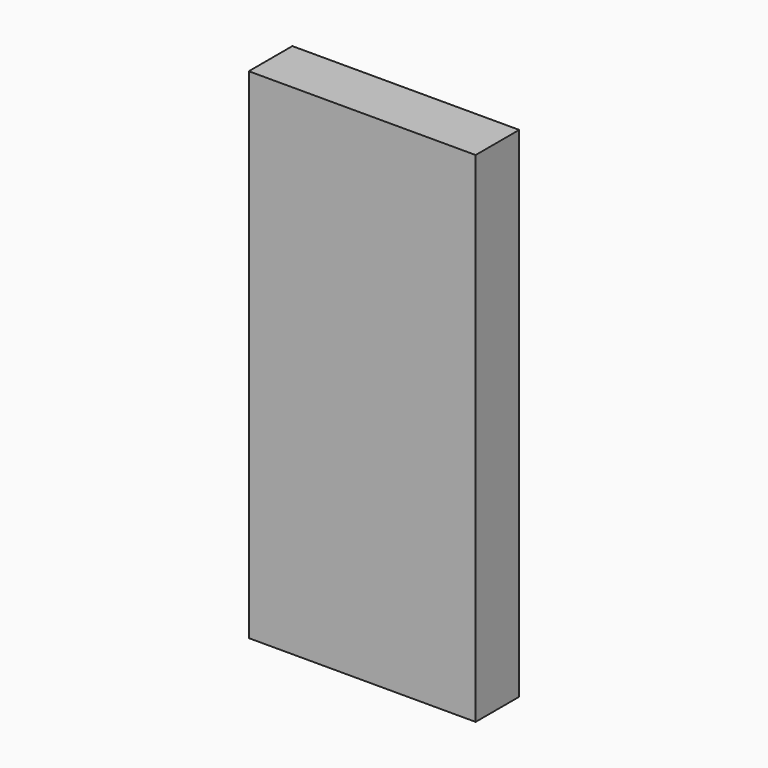
from build123d import *

# Parameters (mm, degrees)
F0_W     = 50
F0_H     = 110
F1_DEPTH = 20
F2_W     = 50
F2_H     = 110
F2_R     = 3
F3_DEPTH = 8


with BuildPart() as f1:
    # F0 (on Front) → F1 (new body)
    with BuildSketch(Plane.XZ):
        with Locations((0, 35)):
            Rectangle(F0_W, F0_H)
    extrude(amount=F1_DEPTH)

    # F2 (on face) → F3 (cut)
    with BuildSketch(Plane(origin=(0, 0, 0), x_dir=(-1, 0, 0), z_dir=(0, 1, 0))):
        with Locations((0, 35)):
            Rectangle(F2_W, F2_H)
        Circle(F2_R, mode=Mode.SUBTRACT)
    extrude(amount=-F3_DEPTH, mode=Mode.SUBTRACT)


solid = f1.part
